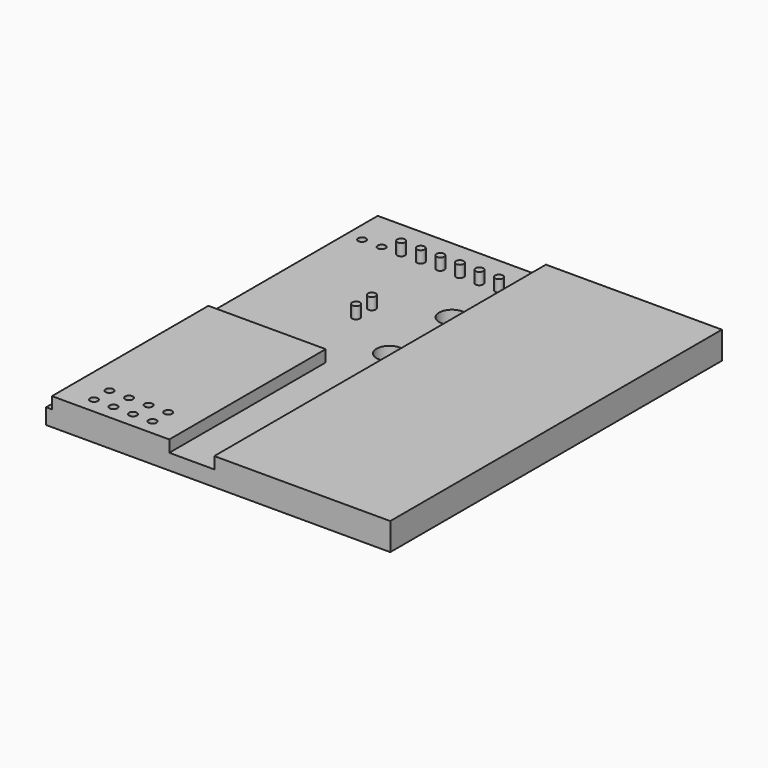
from build123d import *

# Parameters (mm, degrees)
SKETCH_W      = 44
SKETCH_H      = 53
SKETCH_R      = 1.65
SKETCH_R_2    = 0.5
PAD_DEPTH     = 2
SKETCH001_R   = 0.5
SKETCH001_W   = 22.5
SKETCH001_H   = 53
SKETCH001_W_2 = 15
SKETCH001_H_2 = 25
PAD001_DEPTH  = 2
SKETCH002_R   = 0.5
PAD002_DEPTH  = 10


with BuildPart() as part:
    # Sketch → Pad (new body)
    with BuildSketch(Plane.XY):
        with Locations((16, 26.5)):
            Rectangle(SKETCH_W, SKETCH_H)
        with Locations((13.5, 40.5)):
            Circle(SKETCH_R, mode=Mode.SUBTRACT)
        with Locations((13.5, 30.5)):
            Circle(SKETCH_R, mode=Mode.SUBTRACT)
        with Locations((1, 48)):
            Circle(SKETCH_R_2, mode=Mode.SUBTRACT)
        with Locations((3.5, 48)):
            Circle(SKETCH_R_2, mode=Mode.SUBTRACT)
        with Locations((6, 48)):
            Circle(SKETCH_R_2, mode=Mode.SUBTRACT)
        with Locations((8.5, 48)):
            Circle(SKETCH_R_2, mode=Mode.SUBTRACT)
        with Locations((11, 48)):
            Circle(SKETCH_R_2, mode=Mode.SUBTRACT)
        with Locations((13.5, 48)):
            Circle(SKETCH_R_2, mode=Mode.SUBTRACT)
        with Locations((-4, 48)):
            Circle(SKETCH_R_2, mode=Mode.SUBTRACT)
        with Locations((-1.5, 48)):
            Circle(SKETCH_R_2, mode=Mode.SUBTRACT)
        with Locations((3.5, 4.5)):
            Circle(SKETCH_R_2, mode=Mode.SUBTRACT)
        with Locations((6, 4.5)):
            Circle(SKETCH_R_2, mode=Mode.SUBTRACT)
        with Locations((-1.5, 4.5)):
            Circle(SKETCH_R_2, mode=Mode.SUBTRACT)
        with Locations((1, 4.5)):
            Circle(SKETCH_R_2, mode=Mode.SUBTRACT)
        with Locations((3.5, 2)):
            Circle(SKETCH_R_2, mode=Mode.SUBTRACT)
        with Locations((6, 2)):
            Circle(SKETCH_R_2, mode=Mode.SUBTRACT)
        with Locations((-1.5, 2)):
            Circle(SKETCH_R_2, mode=Mode.SUBTRACT)
        with Locations((1, 2)):
            Circle(SKETCH_R_2, mode=Mode.SUBTRACT)
    extrude(amount=PAD_DEPTH)

    # Sketch001 → Pad001 (join)
    with BuildSketch(Plane.XY.offset(1.5)):
        with Locations((1, 48)):
            Circle(SKETCH001_R)
        with Locations((3.5, 48)):
            Circle(SKETCH001_R)
        with Locations((6, 48)):
            Circle(SKETCH001_R)
        with Locations((8.5, 48)):
            Circle(SKETCH001_R)
        with Locations((11, 48)):
            Circle(SKETCH001_R)
        with Locations((13.5, 48)):
            Circle(SKETCH001_R)
        with Locations((6, 37.0492)):
            Circle(SKETCH001_R)
        with Locations((6, 34.5492)):
            Circle(SKETCH001_R)
        with Locations((26.75, 26.5)):
            Rectangle(SKETCH001_W, SKETCH001_H)
        with Locations((2.25, 12.5)):
            Rectangle(SKETCH001_W_2, SKETCH001_H_2)
        with Locations((3.5, 4.515131)):
            Circle(SKETCH001_R, mode=Mode.SUBTRACT)
        with Locations((6, 4.515131)):
            Circle(SKETCH001_R, mode=Mode.SUBTRACT)
        with Locations((-1.5, 4.515131)):
            Circle(SKETCH001_R, mode=Mode.SUBTRACT)
        with Locations((1, 4.515131)):
            Circle(SKETCH001_R, mode=Mode.SUBTRACT)
        with Locations((3.5, 2.015131)):
            Circle(SKETCH001_R, mode=Mode.SUBTRACT)
        with Locations((6, 2.015131)):
            Circle(SKETCH001_R, mode=Mode.SUBTRACT)
        with Locations((-1.5, 2.015131)):
            Circle(SKETCH001_R, mode=Mode.SUBTRACT)
        with Locations((1, 2.015131)):
            Circle(SKETCH001_R, mode=Mode.SUBTRACT)
    extrude(amount=PAD001_DEPTH)

    # Sketch002 → Pad002 (join)
    with BuildSketch(Plane.XY.offset(1.5)):
        with Locations((6, 37.0492)):
            Circle(SKETCH002_R)
        with Locations((6, 34.5492)):
            Circle(SKETCH002_R)
    extrude(amount=-PAD002_DEPTH)


solid = part.part
